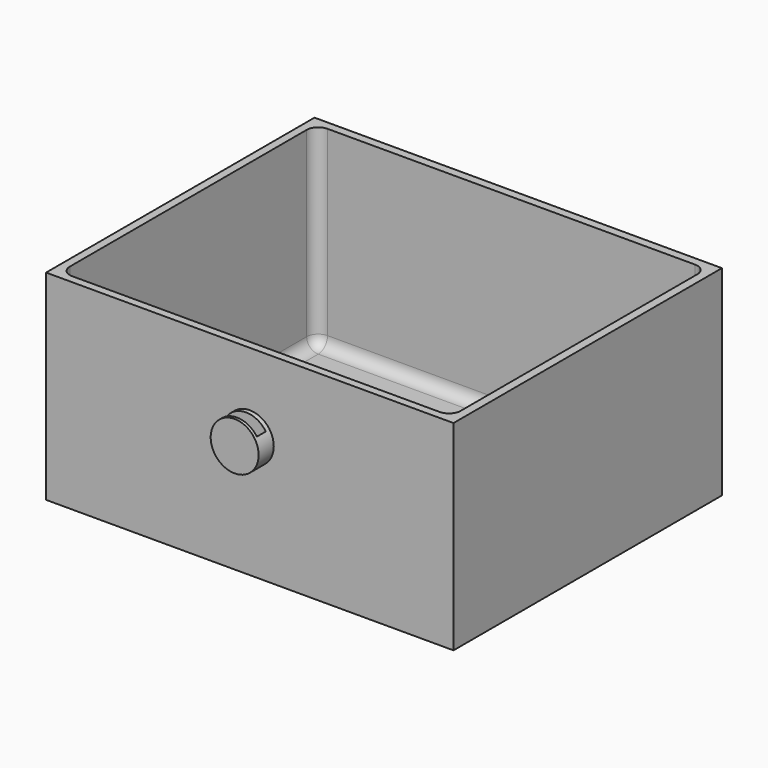
from build123d import *

# Parameters (mm, degrees)
F0_W     = 431.8
F0_H     = 212.09
F1_DEPTH = 355.6
F2_W     = 414.10742
F2_H     = 338.284008
F3_DEPTH = 205.232
F4_R     = 25.4
F5_DEPTH = 20.066
F6_R     = 12.264205
F7_W     = 42.114318
F7_H     = 11.923939
F8_DEPTH = 76.454


with BuildPart() as f1:
    # F0 (on Front) → F1 (new body)
    with BuildSketch(Plane.XZ):
        Rectangle(F0_W, F0_H)
    extrude(amount=F1_DEPTH)

    # F2 (on face) → F3 (cut)
    with BuildSketch(Plane.XY.offset(106.045)):
        with Locations((-0.196185, -178.056706)):
            Rectangle(F2_W, F2_H)
    extrude(amount=-F3_DEPTH, mode=Mode.SUBTRACT)

    # F4 (on face) → F5 (join)
    with BuildSketch(Plane.XZ.offset(355.6)):
        with Locations((0, 22.440701)):
            Circle(F4_R)
    extrude(amount=F5_DEPTH)

    # F6
    f6_edges = [f1.edges().sort_by_distance(p)[0] for p in [
        (-207.249895, -347.19871, 3.429),
        (-0.196185, -347.19871, -99.187),
        (-207.249895, -178.056706, -99.187),
        (206.857525, -178.056706, -99.187),
        (206.857525, -347.19871, 3.429),
        (-0.196185, -8.914702, -99.187),
        (-207.249895, -8.914702, 3.429),
        (206.857525, -8.914702, 3.429),
    ]]
    fillet(f6_edges, radius=F6_R)

    # F7 (on face) → F8 (cut)
    with BuildSketch(Plane.XY.offset(106.045)):
        with Locations((-0.088485, -366.523399)):
            Rectangle(F7_W, F7_H)
    extrude(amount=-F8_DEPTH, mode=Mode.SUBTRACT)


solid = f1.part
